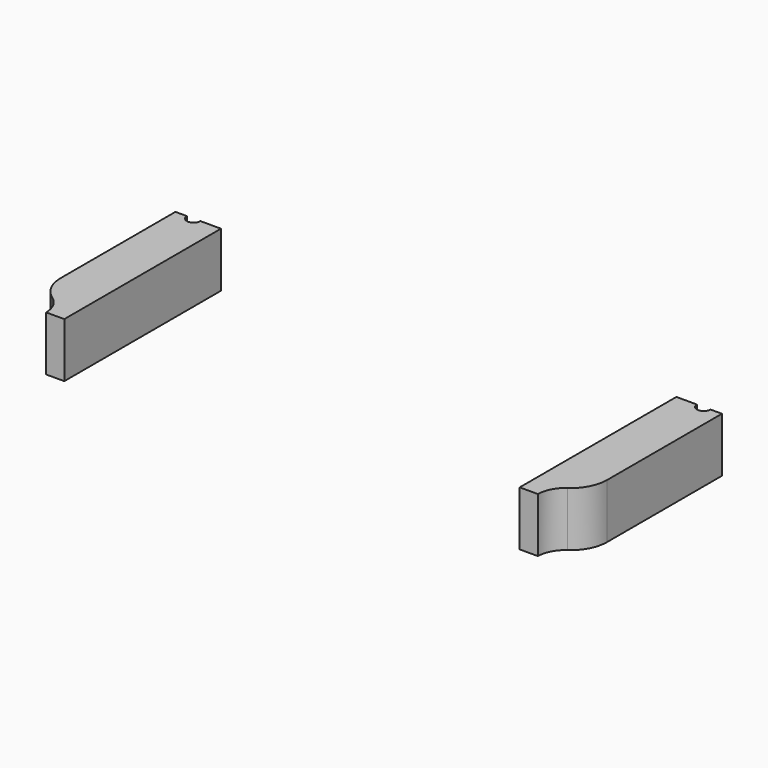
from build123d import *

# Parameters (mm, degrees)
CYLINDER1348_R               = 6
CYLINDER1348_DEPTH           = 16
CYLINDER1352_R               = 6
CYLINDER1352_DEPTH           = 16
CYLINDER1355_R               = 1.5
CYLINDER1355_DEPTH           = 50
CYLINDER1355_PLACEMENT_ANGLE = 45
CYLINDER1351_R               = 1.5
CYLINDER1351_DEPTH           = 50
CYLINDER1349_R               = 1.5
CYLINDER1349_DEPTH           = 50
CYLINDER1349_PLACEMENT_ANGLE = 135
CYLINDER1353_R               = 1.5
CYLINDER1353_DEPTH           = 50
CYLINDER1347_R               = 1.5
CYLINDER1347_DEPTH           = 50
CYLINDER1347_PLACEMENT_ANGLE = 225
CYLINDER1354_R               = 1.5
CYLINDER1354_DEPTH           = 50
CYLINDER1350_R               = 1.5
CYLINDER1350_DEPTH           = 50
CYLINDER1350_PLACEMENT_ANGLE = 45
CYLINDER1346_R               = 1.5
CYLINDER1346_DEPTH           = 50
BOX494_W                     = 10
BOX494_H                     = 43
BOX494_DEPTH                 = 12
BOX495_W                     = 10
BOX495_H                     = 43
BOX495_DEPTH                 = 12
FILLET021_R                  = 8


with BuildPart() as obj1:
    # Cylinder1348 → Cylinder1348 (new body)
    with BuildSketch(Plane(origin=(-60, -43, 10), x_dir=(1, 0, 0), z_dir=(0, 0, 1))):
        Circle(CYLINDER1348_R)
    extrude(amount=CYLINDER1348_DEPTH)


with BuildPart() as compound869:
    # Cylinder1352 → Cylinder1352 (new body)
    with BuildSketch(Plane(origin=(60, -43, 10), x_dir=(1, 0, 0), z_dir=(0, 0, 1))):
        Circle(CYLINDER1352_R)
    extrude(amount=CYLINDER1352_DEPTH)

    # Compound869: union obj1
    add(obj1.part)


with BuildPart() as obj2:
    # Cylinder1355 → Cylinder1355 (new body)
    with BuildSketch(Plane.XY):
        Circle(CYLINDER1355_R)
    extrude(amount=CYLINDER1355_DEPTH)


with BuildPart() as obj2_1:
    # Cylinder1355 placement: moved
    add(obj2.part.moved(Location((39.59798, -39.59798, 2))).rotate(Axis((39.59798, -39.59798, 2), (0, 0, 1)), CYLINDER1355_PLACEMENT_ANGLE))


with BuildPart() as obj3:
    # Cylinder1351 → Cylinder1351 (new body)
    with BuildSketch(Plane(origin=(56, 0, 2), x_dir=(0, 1, 0), z_dir=(0, 0, 1))):
        Circle(CYLINDER1351_R)
    extrude(amount=CYLINDER1351_DEPTH)


with BuildPart() as obj4:
    # Cylinder1349 → Cylinder1349 (new body)
    with BuildSketch(Plane.XY):
        Circle(CYLINDER1349_R)
    extrude(amount=CYLINDER1349_DEPTH)


with BuildPart() as obj4_1:
    # Cylinder1349 placement: moved
    add(obj4.part.moved(Location((39.59798, 39.59798, 2))).rotate(Axis((39.59798, 39.59798, 2), (0, 0, 1)), CYLINDER1349_PLACEMENT_ANGLE))


with BuildPart() as obj5:
    # Cylinder1353 → Cylinder1353 (new body)
    with BuildSketch(Plane(origin=(0, 56, 2), x_dir=(-1, 0, 0), z_dir=(0, 0, 1))):
        Circle(CYLINDER1353_R)
    extrude(amount=CYLINDER1353_DEPTH)


with BuildPart() as obj6:
    # Cylinder1347 → Cylinder1347 (new body)
    with BuildSketch(Plane.XY):
        Circle(CYLINDER1347_R)
    extrude(amount=CYLINDER1347_DEPTH)


with BuildPart() as obj6_1:
    # Cylinder1347 placement: moved
    add(obj6.part.moved(Location((-39.59798, 39.59798, 2))).rotate(Axis((-39.59798, 39.59798, 2), (0, 0, 1)), CYLINDER1347_PLACEMENT_ANGLE))


with BuildPart() as obj7:
    # Cylinder1354 → Cylinder1354 (new body)
    with BuildSketch(Plane(origin=(-56, 0, 2), x_dir=(0, -1, 0), z_dir=(0, 0, 1))):
        Circle(CYLINDER1354_R)
    extrude(amount=CYLINDER1354_DEPTH)


with BuildPart() as obj8:
    # Cylinder1350 → Cylinder1350 (new body)
    with BuildSketch(Plane.XY):
        Circle(CYLINDER1350_R)
    extrude(amount=CYLINDER1350_DEPTH)


with BuildPart() as obj8_1:
    # Cylinder1350 placement: moved
    add(obj8.part.moved(Location((-39.59798, -39.59798, 2))).rotate(Axis((-39.59798, -39.59798, 2), (0, 0, -1)), CYLINDER1350_PLACEMENT_ANGLE))


with BuildPart() as compound868:
    # Cylinder1346 → Cylinder1346 (new body)
    with BuildSketch(Plane(origin=(0, -56, 2), x_dir=(1, 0, 0), z_dir=(0, 0, 1))):
        Circle(CYLINDER1346_R)
    extrude(amount=CYLINDER1346_DEPTH)

    # Compound868: union obj2, obj3, obj4, obj5, obj6, obj7, obj8
    add(obj2_1.part)
    add(obj3.part)
    add(obj4_1.part)
    add(obj5.part)
    add(obj6_1.part)
    add(obj7.part)
    add(obj8_1.part)


with BuildPart() as krychle494:
    # Box494 → Box494 (new body)
    with BuildSketch(Plane(origin=(50, -43, 10), x_dir=(1, 0, 0), z_dir=(0, 0, 1))):
        with Locations((5, 21.5)):
            Rectangle(BOX494_W, BOX494_H)
    extrude(amount=BOX494_DEPTH)


with BuildPart() as fillet021:
    # Box495 → Box495 (new body)
    with BuildSketch(Plane(origin=(-60, -43, 10), x_dir=(1, 0, 0), z_dir=(0, 0, 1))):
        with Locations((5, 21.5)):
            Rectangle(BOX495_W, BOX495_H)
    extrude(amount=BOX495_DEPTH)

    # Compound867: union Krychle494
    add(krychle494.part)

    # Cut485: cut Compound868
    add(compound868.part, mode=Mode.SUBTRACT)

    # Cut486: cut Compound869
    add(compound869.part, mode=Mode.SUBTRACT)

    # Fillet021
    fillet021_edges = [fillet021.edges().sort_by_distance(p)[0] for p in [
        (-60, -37, 16),
        (60, -37, 16),
    ]]
    fillet(fillet021_edges, radius=FILLET021_R)


with BuildPart() as fillet021_1:
    # Fillet021 placement: moved
    add(fillet021.part.moved(Location((0, 0, -4))))


solid = fillet021_1.part
